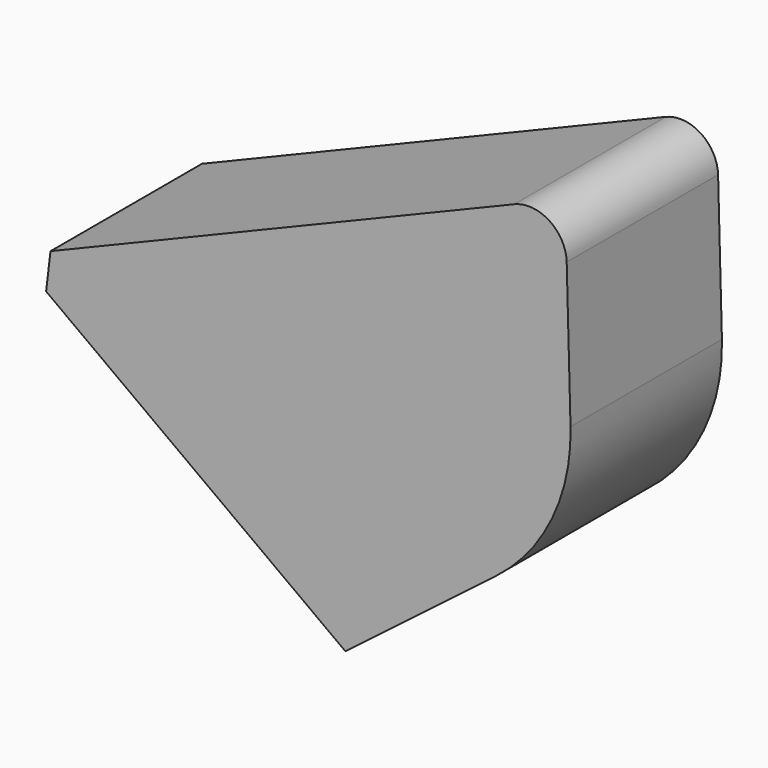
from build123d import *

# Parameters (mm, degrees)
F1_DEPTH = 25
F2_SIZE  = 5
F3_R     = 5
F4_R     = 25
F5_R     = 7.049752
F6_DEPTH = 25


with BuildPart() as f1:
    # F0 (on Front) → F1 (new body)
    with BuildSketch(Plane.XZ):
        Polygon((0, 0), (30.081257, 23.027755), (29.043972, 62.029697), (-43.566033, 31.94841), align=None)
    extrude(amount=F1_DEPTH)

    # F2
    f2_edges = [f1.edges().sort_by_distance(p)[0] for p in [
        (-43.566033, -12.5, 31.94841),
    ]]
    chamfer(f2_edges, length=F2_SIZE)

    # F3
    f3_edges = [f1.edges().sort_by_distance(p)[0] for p in [
        (29.043972, -12.5, 62.029697),
    ]]
    fillet(f3_edges, radius=F3_R)

    # F4
    f4_edges = [f1.edges().sort_by_distance(p)[0] for p in [
        (30.081257, -12.5, 23.027755),
    ]]
    fillet(f4_edges, radius=F4_R)

    # F5 (on face) → F6 (join)
    with BuildSketch(Plane.XZ.offset(25)):
        with Locations((0, 40.225446)):
            Circle(F5_R)
    extrude(amount=-F6_DEPTH)


solid = f1.part
